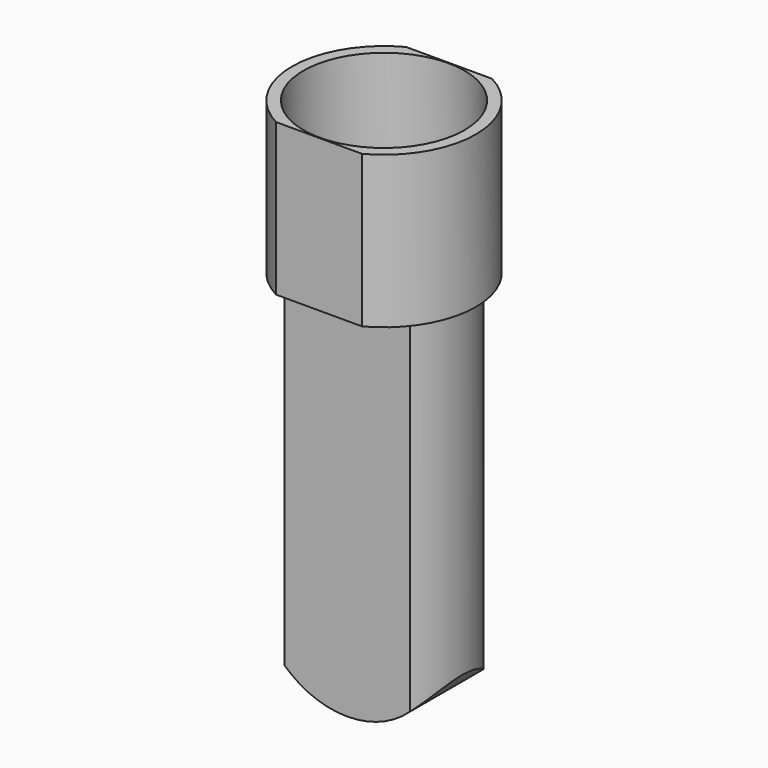
from build123d import *

# Parameters (mm, degrees)
F1_DEPTH = 38
F2_R     = 20.15
F3_DEPTH = 25.4
F5_DEPTH = 93
F7_DEPTH = 31.834163


with BuildPart() as f1:
    # F0 (on Top) → F1 (new body)
    with BuildSketch(Plane.XY):
        with BuildLine():
            Line((10.75, 20.333163), (-10.75, 20.333163))
            ThreePointArc((-10.75, 20.333163), (-23, 0), (-10.75, -20.333163))
            Line((-10.75, -20.333163), (10.75, -20.333163))
            ThreePointArc((10.75, -20.333163), (23, 0), (10.75, 20.333163))
        make_face()
    extrude(amount=F1_DEPTH)

    # F2 (on face) → F3 (cut)
    with BuildSketch(Plane.XY.offset(38)):
        Circle(F2_R)
    extrude(amount=-F3_DEPTH, mode=Mode.SUBTRACT)

    # F4 (on face) → F5 (join)
    with BuildSketch(Plane(origin=(0, 0, 0), x_dir=(1, 0, 0), z_dir=(0, 0, -1))):
        with BuildLine():
            Line((15.748016, 11.5), (-15.748016, 11.5))
            ThreePointArc((-15.748016, 11.5), (-19.5, 0), (-15.748016, -11.5))
            Line((-15.748016, -11.5), (15.748016, -11.5))
            ThreePointArc((15.748016, -11.5), (19.5, 0), (15.748016, 11.5))
        make_face()
    extrude(amount=F5_DEPTH)

    # F6 (on face) → F7 (cut, through all)
    with BuildSketch(Plane.XZ.offset(11.5)):
        with BuildLine():
            ThreePointArc((-15.748016, -86.763055), (-19.645798, -81.960042), (-22.122635, -76.291981))
            Line((-22.122635, -76.291981), (-44.180881, -110.498317))
            Line((-44.180881, -110.498317), (51.086351, -107.824139))
            Line((51.086351, -107.824139), (22.594881, -74.29783))
            ThreePointArc((22.594881, -74.29783), (20.159114, -81.072945), (15.748016, -86.763055))
            Line((15.748016, -86.763055), (15.748016, -93))
            Line((15.748016, -93), (0, -93))
            Line((0, -93), (-15.748016, -93))
            Line((-15.748016, -93), (-15.748016, -86.763055))
        make_face()
        with BuildLine():
            ThreePointArc((15.748016, -86.763055), (8.469054, -91.383992), (0, -93))
            Line((0, -93), (15.748016, -93))
            Line((15.748016, -93), (15.748016, -86.763055))
        make_face()
        with BuildLine():
            ThreePointArc((0, -93), (-8.469054, -91.383992), (-15.748016, -86.763055))
            Line((-15.748016, -86.763055), (-15.748016, -93))
            Line((-15.748016, -93), (0, -93))
        make_face()
    extrude(amount=-F7_DEPTH, mode=Mode.SUBTRACT)


solid = f1.part
